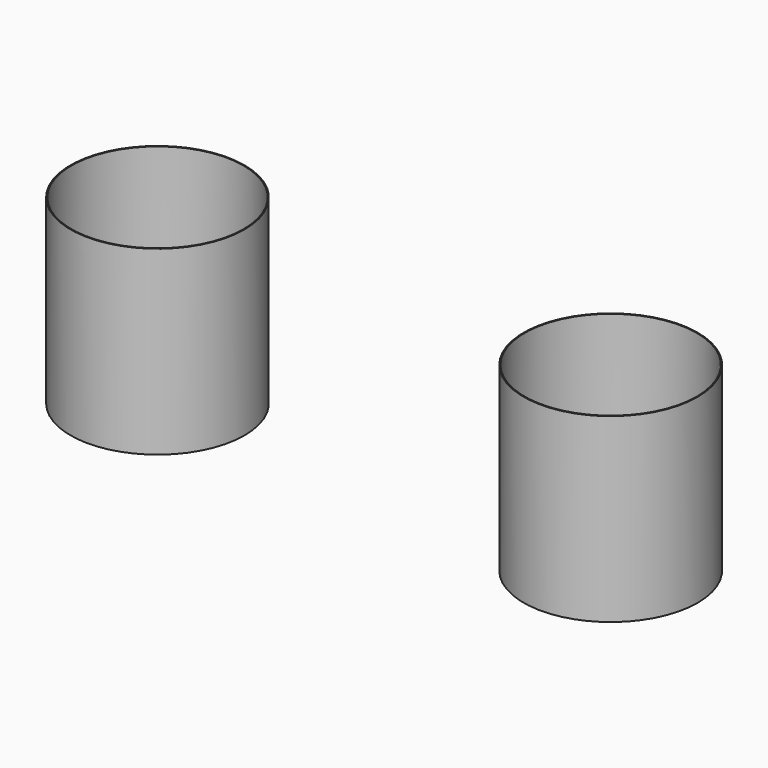
from build123d import *

# Parameters (mm, degrees)
F0_R     = 24.384
F0_R_2   = 24.13
F1_DEPTH = 50.8


with BuildPart() as f1:
    # F0 (on Top) → F1 (new body)
    with BuildSketch(Plane.XY):
        Circle(F0_R)
        Circle(F0_R_2, mode=Mode.SUBTRACT)
    extrude(amount=F1_DEPTH)


with BuildPart() as f2_1:
    # F2: copy of F1
    add(f1.part.moved(Location((127, 0, 0))))


solid = Compound([f1.part, f2_1.part])
